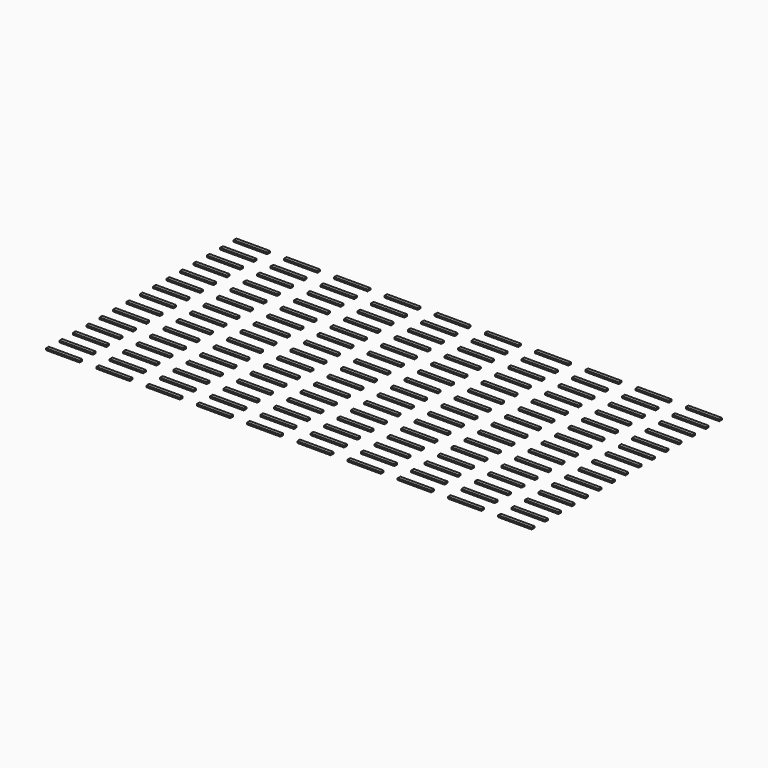
from build123d import *

# Parameters (mm, degrees)
F0_W     = 10
F0_H     = 1
F1_DEPTH = 0.5


with BuildPart() as f1:
    # F0 (on Top) → F1 (new body)
    with BuildSketch(Plane.XY):
        with Locations((5, 0.5)):
            Rectangle(F0_W, F0_H)
        with Locations((5, 5.5)):
            Rectangle(F0_W, F0_H)
        with Locations((20, 0.5)):
            Rectangle(F0_W, F0_H)
        with Locations((20, 5.5)):
            Rectangle(F0_W, F0_H)
        with Locations((35, 0.5)):
            Rectangle(F0_W, F0_H)
        with Locations((35, 5.5)):
            Rectangle(F0_W, F0_H)
        with Locations((50, 0.5)):
            Rectangle(F0_W, F0_H)
        with Locations((50, 5.5)):
            Rectangle(F0_W, F0_H)
        with Locations((65, 0.5)):
            Rectangle(F0_W, F0_H)
        with Locations((65, 5.5)):
            Rectangle(F0_W, F0_H)
        with Locations((80, 0.5)):
            Rectangle(F0_W, F0_H)
        with Locations((80, 5.5)):
            Rectangle(F0_W, F0_H)
        with Locations((95, 0.5)):
            Rectangle(F0_W, F0_H)
        with Locations((95, 5.5)):
            Rectangle(F0_W, F0_H)
        with Locations((110, 0.5)):
            Rectangle(F0_W, F0_H)
        with Locations((110, 5.5)):
            Rectangle(F0_W, F0_H)
        with Locations((125, 0.5)):
            Rectangle(F0_W, F0_H)
        with Locations((125, 5.5)):
            Rectangle(F0_W, F0_H)
        with Locations((140, 0.5)):
            Rectangle(F0_W, F0_H)
        with Locations((140, 5.5)):
            Rectangle(F0_W, F0_H)
        with Locations((5, 10.5)):
            Rectangle(F0_W, F0_H)
        with Locations((5, 15.5)):
            Rectangle(F0_W, F0_H)
        with Locations((5, 20.5)):
            Rectangle(F0_W, F0_H)
        with Locations((5, 25.5)):
            Rectangle(F0_W, F0_H)
        with Locations((5, 30.5)):
            Rectangle(F0_W, F0_H)
        with Locations((5, 35.5)):
            Rectangle(F0_W, F0_H)
        with Locations((5, 40.5)):
            Rectangle(F0_W, F0_H)
        with Locations((5, 45.5)):
            Rectangle(F0_W, F0_H)
        with Locations((20, 10.5)):
            Rectangle(F0_W, F0_H)
        with Locations((20, 15.5)):
            Rectangle(F0_W, F0_H)
        with Locations((20, 20.5)):
            Rectangle(F0_W, F0_H)
        with Locations((20, 25.5)):
            Rectangle(F0_W, F0_H)
        with Locations((20, 30.5)):
            Rectangle(F0_W, F0_H)
        with Locations((20, 35.5)):
            Rectangle(F0_W, F0_H)
        with Locations((20, 40.5)):
            Rectangle(F0_W, F0_H)
        with Locations((20, 45.5)):
            Rectangle(F0_W, F0_H)
        with Locations((35, 10.5)):
            Rectangle(F0_W, F0_H)
        with Locations((35, 15.5)):
            Rectangle(F0_W, F0_H)
        with Locations((35, 20.5)):
            Rectangle(F0_W, F0_H)
        with Locations((35, 25.5)):
            Rectangle(F0_W, F0_H)
        with Locations((35, 30.5)):
            Rectangle(F0_W, F0_H)
        with Locations((35, 35.5)):
            Rectangle(F0_W, F0_H)
        with Locations((35, 40.5)):
            Rectangle(F0_W, F0_H)
        with Locations((35, 45.5)):
            Rectangle(F0_W, F0_H)
        with Locations((50, 10.5)):
            Rectangle(F0_W, F0_H)
        with Locations((50, 15.5)):
            Rectangle(F0_W, F0_H)
        with Locations((50, 20.5)):
            Rectangle(F0_W, F0_H)
        with Locations((50, 25.5)):
            Rectangle(F0_W, F0_H)
        with Locations((50, 30.5)):
            Rectangle(F0_W, F0_H)
        with Locations((50, 35.5)):
            Rectangle(F0_W, F0_H)
        with Locations((50, 40.5)):
            Rectangle(F0_W, F0_H)
        with Locations((50, 45.5)):
            Rectangle(F0_W, F0_H)
        with Locations((65, 10.5)):
            Rectangle(F0_W, F0_H)
        with Locations((65, 15.5)):
            Rectangle(F0_W, F0_H)
        with Locations((65, 20.5)):
            Rectangle(F0_W, F0_H)
        with Locations((65, 25.5)):
            Rectangle(F0_W, F0_H)
        with Locations((65, 30.5)):
            Rectangle(F0_W, F0_H)
        with Locations((65, 35.5)):
            Rectangle(F0_W, F0_H)
        with Locations((65, 40.5)):
            Rectangle(F0_W, F0_H)
        with Locations((65, 45.5)):
            Rectangle(F0_W, F0_H)
        with Locations((80, 10.5)):
            Rectangle(F0_W, F0_H)
        with Locations((80, 15.5)):
            Rectangle(F0_W, F0_H)
        with Locations((80, 20.5)):
            Rectangle(F0_W, F0_H)
        with Locations((80, 25.5)):
            Rectangle(F0_W, F0_H)
        with Locations((80, 30.5)):
            Rectangle(F0_W, F0_H)
        with Locations((80, 35.5)):
            Rectangle(F0_W, F0_H)
        with Locations((80, 40.5)):
            Rectangle(F0_W, F0_H)
        with Locations((80, 45.5)):
            Rectangle(F0_W, F0_H)
        with Locations((95, 10.5)):
            Rectangle(F0_W, F0_H)
        with Locations((95, 15.5)):
            Rectangle(F0_W, F0_H)
        with Locations((95, 20.5)):
            Rectangle(F0_W, F0_H)
        with Locations((95, 25.5)):
            Rectangle(F0_W, F0_H)
        with Locations((95, 30.5)):
            Rectangle(F0_W, F0_H)
        with Locations((95, 35.5)):
            Rectangle(F0_W, F0_H)
        with Locations((95, 40.5)):
            Rectangle(F0_W, F0_H)
        with Locations((95, 45.5)):
            Rectangle(F0_W, F0_H)
        with Locations((110, 10.5)):
            Rectangle(F0_W, F0_H)
        with Locations((110, 15.5)):
            Rectangle(F0_W, F0_H)
        with Locations((110, 20.5)):
            Rectangle(F0_W, F0_H)
        with Locations((110, 25.5)):
            Rectangle(F0_W, F0_H)
        with Locations((110, 30.5)):
            Rectangle(F0_W, F0_H)
        with Locations((110, 35.5)):
            Rectangle(F0_W, F0_H)
        with Locations((110, 40.5)):
            Rectangle(F0_W, F0_H)
        with Locations((110, 45.5)):
            Rectangle(F0_W, F0_H)
        with Locations((125, 10.5)):
            Rectangle(F0_W, F0_H)
        with Locations((125, 15.5)):
            Rectangle(F0_W, F0_H)
        with Locations((125, 20.5)):
            Rectangle(F0_W, F0_H)
        with Locations((125, 25.5)):
            Rectangle(F0_W, F0_H)
        with Locations((125, 30.5)):
            Rectangle(F0_W, F0_H)
        with Locations((125, 35.5)):
            Rectangle(F0_W, F0_H)
        with Locations((125, 40.5)):
            Rectangle(F0_W, F0_H)
        with Locations((125, 45.5)):
            Rectangle(F0_W, F0_H)
        with Locations((140, 10.5)):
            Rectangle(F0_W, F0_H)
        with Locations((140, 15.5)):
            Rectangle(F0_W, F0_H)
        with Locations((140, 20.5)):
            Rectangle(F0_W, F0_H)
        with Locations((140, 25.5)):
            Rectangle(F0_W, F0_H)
        with Locations((140, 30.5)):
            Rectangle(F0_W, F0_H)
        with Locations((140, 35.5)):
            Rectangle(F0_W, F0_H)
        with Locations((140, 40.5)):
            Rectangle(F0_W, F0_H)
        with Locations((140, 45.5)):
            Rectangle(F0_W, F0_H)
        with Locations((5, 50.5)):
            Rectangle(F0_W, F0_H)
        with Locations((5, 55.5)):
            Rectangle(F0_W, F0_H)
        with Locations((5, 60.5)):
            Rectangle(F0_W, F0_H)
        with Locations((5, 65.5)):
            Rectangle(F0_W, F0_H)
        with Locations((5, 70.5)):
            Rectangle(F0_W, F0_H)
        with Locations((20, 50.5)):
            Rectangle(F0_W, F0_H)
        with Locations((20, 55.5)):
            Rectangle(F0_W, F0_H)
        with Locations((20, 60.5)):
            Rectangle(F0_W, F0_H)
        with Locations((20, 65.5)):
            Rectangle(F0_W, F0_H)
        with Locations((20, 70.5)):
            Rectangle(F0_W, F0_H)
        with Locations((35, 50.5)):
            Rectangle(F0_W, F0_H)
        with Locations((35, 55.5)):
            Rectangle(F0_W, F0_H)
        with Locations((35, 60.5)):
            Rectangle(F0_W, F0_H)
        with Locations((35, 65.5)):
            Rectangle(F0_W, F0_H)
        with Locations((35, 70.5)):
            Rectangle(F0_W, F0_H)
        with Locations((50, 50.5)):
            Rectangle(F0_W, F0_H)
        with Locations((50, 55.5)):
            Rectangle(F0_W, F0_H)
        with Locations((50, 60.5)):
            Rectangle(F0_W, F0_H)
        with Locations((50, 65.5)):
            Rectangle(F0_W, F0_H)
        with Locations((50, 70.5)):
            Rectangle(F0_W, F0_H)
        with Locations((65, 50.5)):
            Rectangle(F0_W, F0_H)
        with Locations((65, 55.5)):
            Rectangle(F0_W, F0_H)
        with Locations((65, 60.5)):
            Rectangle(F0_W, F0_H)
        with Locations((65, 65.5)):
            Rectangle(F0_W, F0_H)
        with Locations((65, 70.5)):
            Rectangle(F0_W, F0_H)
        with Locations((80, 50.5)):
            Rectangle(F0_W, F0_H)
        with Locations((80, 55.5)):
            Rectangle(F0_W, F0_H)
        with Locations((80, 60.5)):
            Rectangle(F0_W, F0_H)
        with Locations((80, 65.5)):
            Rectangle(F0_W, F0_H)
        with Locations((80, 70.5)):
            Rectangle(F0_W, F0_H)
        with Locations((95, 50.5)):
            Rectangle(F0_W, F0_H)
        with Locations((95, 55.5)):
            Rectangle(F0_W, F0_H)
        with Locations((95, 60.5)):
            Rectangle(F0_W, F0_H)
        with Locations((95, 65.5)):
            Rectangle(F0_W, F0_H)
        with Locations((95, 70.5)):
            Rectangle(F0_W, F0_H)
        with Locations((110, 50.5)):
            Rectangle(F0_W, F0_H)
        with Locations((110, 55.5)):
            Rectangle(F0_W, F0_H)
        with Locations((110, 60.5)):
            Rectangle(F0_W, F0_H)
        with Locations((110, 65.5)):
            Rectangle(F0_W, F0_H)
        with Locations((110, 70.5)):
            Rectangle(F0_W, F0_H)
        with Locations((125, 50.5)):
            Rectangle(F0_W, F0_H)
        with Locations((125, 55.5)):
            Rectangle(F0_W, F0_H)
        with Locations((125, 60.5)):
            Rectangle(F0_W, F0_H)
        with Locations((125, 65.5)):
            Rectangle(F0_W, F0_H)
        with Locations((125, 70.5)):
            Rectangle(F0_W, F0_H)
        with Locations((140, 50.5)):
            Rectangle(F0_W, F0_H)
        with Locations((140, 55.5)):
            Rectangle(F0_W, F0_H)
        with Locations((140, 60.5)):
            Rectangle(F0_W, F0_H)
        with Locations((140, 65.5)):
            Rectangle(F0_W, F0_H)
        with Locations((140, 70.5)):
            Rectangle(F0_W, F0_H)
    extrude(amount=F1_DEPTH)


solid = f1.part
